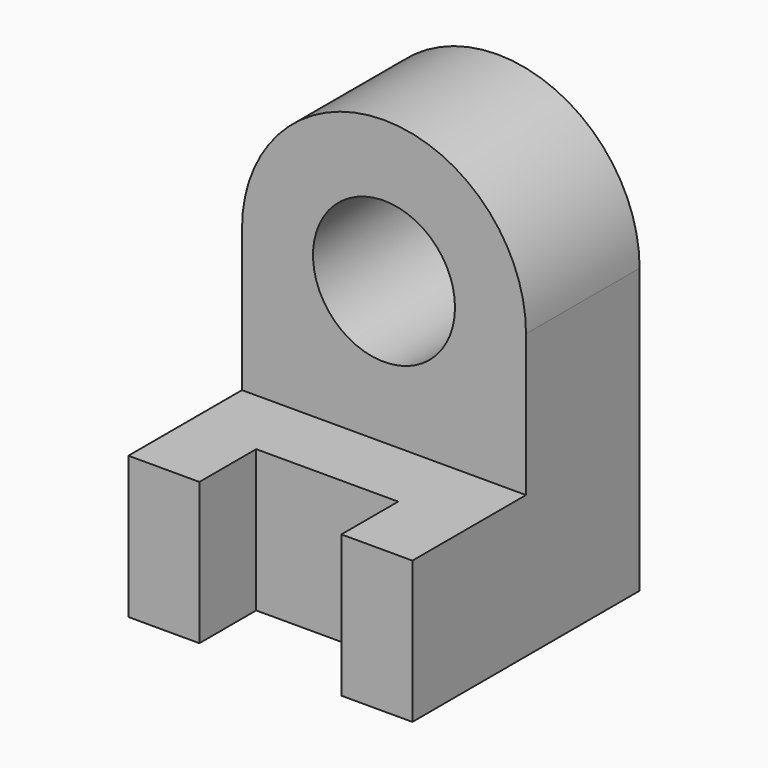
from build123d import *

# Parameters (mm, degrees)
F1_DEPTH = 25.4
F2_W     = 12.7
F2_H     = 12.7
F3_DEPTH = 6.35
F4_R     = 6.35
F5_DEPTH = 12.7
F7_DEPTH = 25.4


with BuildPart() as f1:
    # F0 (on Right) → F1 (new body)
    with BuildSketch(Plane.YZ):
        Polygon((-25.4, 0), (0, 0), (0, 57.15), (-12.7, 57.15), (-12.7, 12.7), (-25.4, 12.7), align=None)
    extrude(amount=F1_DEPTH)

    # F2 (on face) → F3 (cut)
    with BuildSketch(Plane.XZ.offset(25.4)):
        with Locations((12.7, 6.35)):
            Rectangle(F2_W, F2_H)
    extrude(amount=-F3_DEPTH, mode=Mode.SUBTRACT)

    # F4 (on face) → F5 (cut)
    with BuildSketch(Plane.XZ.offset(12.7)):
        with Locations((12.7, 25.4)):
            Circle(F4_R)
    extrude(amount=-F5_DEPTH, mode=Mode.SUBTRACT)

    # F6 (on face) → F7 (cut)
    with BuildSketch(Plane.XZ.offset(12.7)):
        with BuildLine():
            ThreePointArc((0, 25.4), (12.7, 38.1), (25.4, 25.4))
            Line((25.4, 25.4), (25.4, 57.15))
            Line((25.4, 57.15), (0, 57.15))
            Line((0, 57.15), (0, 25.4))
        make_face()
    extrude(amount=-F7_DEPTH, mode=Mode.SUBTRACT)


solid = f1.part
